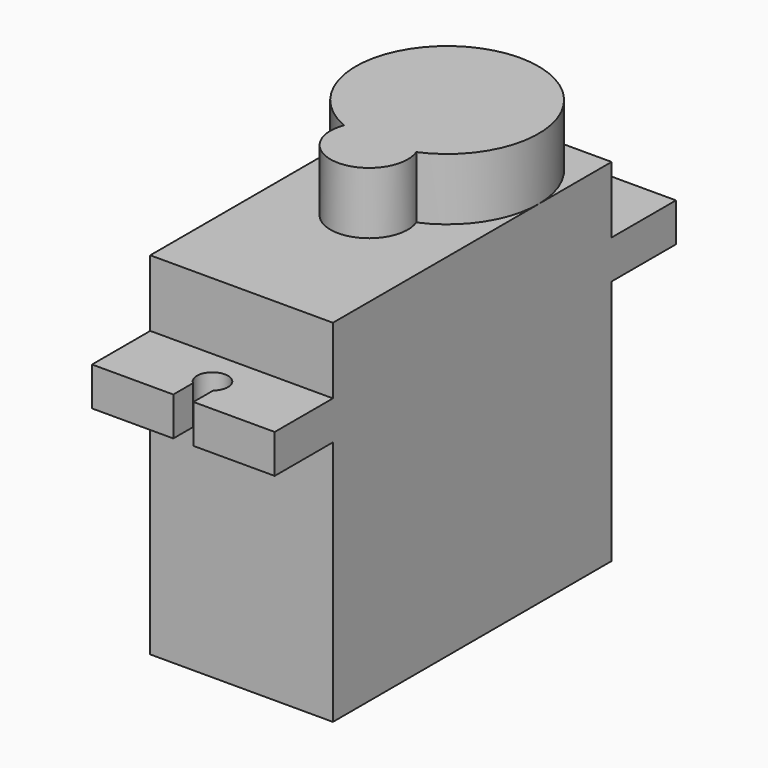
from build123d import *

# Parameters (mm, degrees)
BOX003_W          = 1.3
BOX003_H          = 3.3
BOX003_DEPTH      = 10
BOX002_W          = 1.3
BOX002_H          = 3.3
BOX002_DEPTH      = 10
CYLINDER004_R     = 1
CYLINDER004_DEPTH = 10
CYLINDER003_R     = 1
CYLINDER003_DEPTH = 10
CYLINDER001_R     = 2.5
CYLINDER001_DEPTH = 4
CYLINDER_R        = 5.9
CYLINDER_DEPTH    = 4
BOX001_W          = 11.8
BOX001_H          = 32.4
BOX001_DEPTH      = 2.5
BOX_W             = 11.8
BOX_H             = 22.5
BOX_DEPTH         = 22.7
SKETCH_W          = 3.6
SKETCH_H          = 1.2
POCKET_DEPTH      = 3


with BuildPart() as cubo003:
    # Box003 → Box003 (new body)
    with BuildSketch(Plane(origin=(5.25, 25, 12), x_dir=(1, 0, 0), z_dir=(0, 0, 1))):
        with Locations((0.65, 1.65)):
            Rectangle(BOX003_W, BOX003_H)
    extrude(amount=BOX003_DEPTH)


with BuildPart() as obj1:
    # Box002 → Box002 (new body)
    with BuildSketch(Plane(origin=(5.25, -6, 12), x_dir=(1, 0, 0), z_dir=(0, 0, 1))):
        with Locations((0.65, 1.65)):
            Rectangle(BOX002_W, BOX002_H)
    extrude(amount=BOX002_DEPTH)

    # Fusion005: union Cubo003
    add(cubo003.part)


with BuildPart() as taladro2:
    # Cylinder004 → Cylinder004 (new body)
    with BuildSketch(Plane(origin=(5.9, 24.85, 11), x_dir=(1, 0, 0), z_dir=(0, 0, 1))):
        Circle(CYLINDER004_R)
    extrude(amount=CYLINDER004_DEPTH)


with BuildPart() as taladros001:
    # Cylinder003 → Cylinder003 (new body)
    with BuildSketch(Plane(origin=(5.9, -2.35, 11), x_dir=(1, 0, 0), z_dir=(0, 0, 1))):
        Circle(CYLINDER003_R)
    extrude(amount=CYLINDER003_DEPTH)

    # Fusion004: union Taladro2
    add(taladro2.part)

    # Fusion006: union obj1
    add(obj1.part)


with BuildPart() as cilindro001:
    # Cylinder001 → Cylinder001 (new body)
    with BuildSketch(Plane(origin=(5.9, 10.3, 22.7), x_dir=(1, 0, 0), z_dir=(0, 0, 1))):
        Circle(CYLINDER001_R)
    extrude(amount=CYLINDER001_DEPTH)


with BuildPart() as fusion001:
    # Cylinder → Cylinder (new body)
    with BuildSketch(Plane(origin=(5.9, 16.6, 22.7), x_dir=(1, 0, 0), z_dir=(0, 0, 1))):
        Circle(CYLINDER_R)
    extrude(amount=CYLINDER_DEPTH)

    # Fusion001: union Cilindro001
    add(cilindro001.part)


with BuildPart() as cubo001:
    # Box001 → Box001 (new body)
    with BuildSketch(Plane(origin=(0, -4.7, 15.9), x_dir=(1, 0, 0), z_dir=(0, 0, 1))):
        with Locations((5.9, 16.2)):
            Rectangle(BOX001_W, BOX001_H)
    extrude(amount=BOX001_DEPTH)


with BuildPart() as ranura_cable:
    # Box → Box (new body)
    with BuildSketch(Plane.XY):
        with Locations((5.9, 11.25)):
            Rectangle(BOX_W, BOX_H)
    extrude(amount=BOX_DEPTH)

    # Fusion: union Cubo001
    add(cubo001.part)

    # Fusion003: union Fusion001
    add(fusion001.part)

    # Cut: cut Taladros001
    add(taladros001.part, mode=Mode.SUBTRACT)


with BuildPart() as ranura_cable_1:
    # Cut placement: moved
    add(ranura_cable.part.moved(Location((-5.9, 0, 0))))

    # Sketch (on Face3 of Cut) → Pocket (cut)
    with BuildSketch(Plane(origin=(-5.9, 22.5, 0), x_dir=(-1, 0, 0), z_dir=(0, 1, 0))):
        with Locations((-5.9, 5.1)):
            Rectangle(SKETCH_W, SKETCH_H)
    extrude(amount=-POCKET_DEPTH, mode=Mode.SUBTRACT)


solid = ranura_cable_1.part
